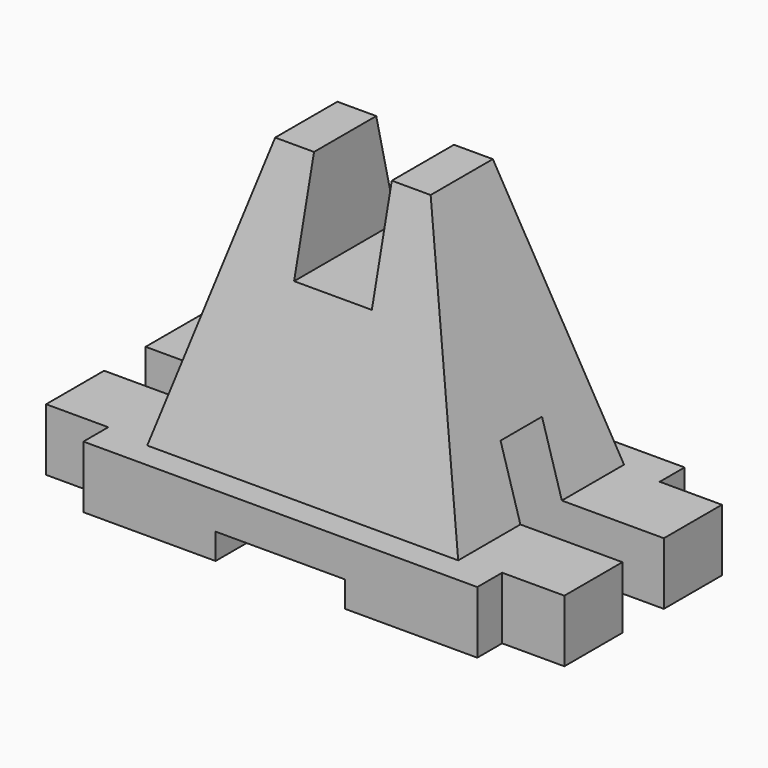
from build123d import *

# Parameters (mm, degrees)
SKETCH002_W     = 30
SKETCH002_H     = 15
SKETCH001_W     = 60
SKETCH001_H     = 40
PAD_DEPTH       = 12
SKETCH003_W     = 10
SKETCH003_H     = 25
POCKET_DEPTH    = 100.001
SKETCH004_W     = 15
SKETCH004_H     = 31.516928
POCKET001_DEPTH = 20
SKETCH005_W     = 25
SKETCH005_H     = 5
POCKET002_DEPTH = 50.001


with BuildPart() as loft_body:
    # Sketch002 → Loft section 0
    with BuildSketch(Plane.XY.offset(64)):
        Rectangle(SKETCH002_W, SKETCH002_H)
    # Sketch001 → Loft section 1
    with BuildSketch(Plane.XY.offset(12)):
        with Locations((0.31551, 0)):
            Rectangle(SKETCH001_W, SKETCH001_H)
    loft()


with BuildPart() as pocket002:
    # Sketch → Pad (new body)
    with BuildSketch(Plane.XY):
        Polygon((-38, -25), (38, -25), (38, -19), (50, -19), (50, 19), (38, 19), (38, 25), (-38, 25), (-38, 19), (-50, 19), (-50, -19), (-38, -19), align=None)
    extrude(amount=PAD_DEPTH)

    # Fusion: union Loft body
    add(loft_body.part)

    # Sketch003 → Pocket (cut, through all)
    with BuildSketch(Plane.YZ.offset(50)):
        with Locations((0, 12.5)):
            Rectangle(SKETCH003_W, SKETCH003_H)
    extrude(amount=-POCKET_DEPTH, mode=Mode.SUBTRACT)

    # Sketch004 → Pocket001 (cut)
    with BuildSketch(Plane.XY.offset(64)):
        Rectangle(SKETCH004_W, SKETCH004_H)
    extrude(amount=-POCKET001_DEPTH, mode=Mode.SUBTRACT)

    # Sketch005 → Pocket002 (cut, through all)
    with BuildSketch(Plane.XZ.offset(25)):
        with Locations((0, 2.5)):
            Rectangle(SKETCH005_W, SKETCH005_H)
    extrude(amount=-POCKET002_DEPTH, mode=Mode.SUBTRACT)


solid = pocket002.part
